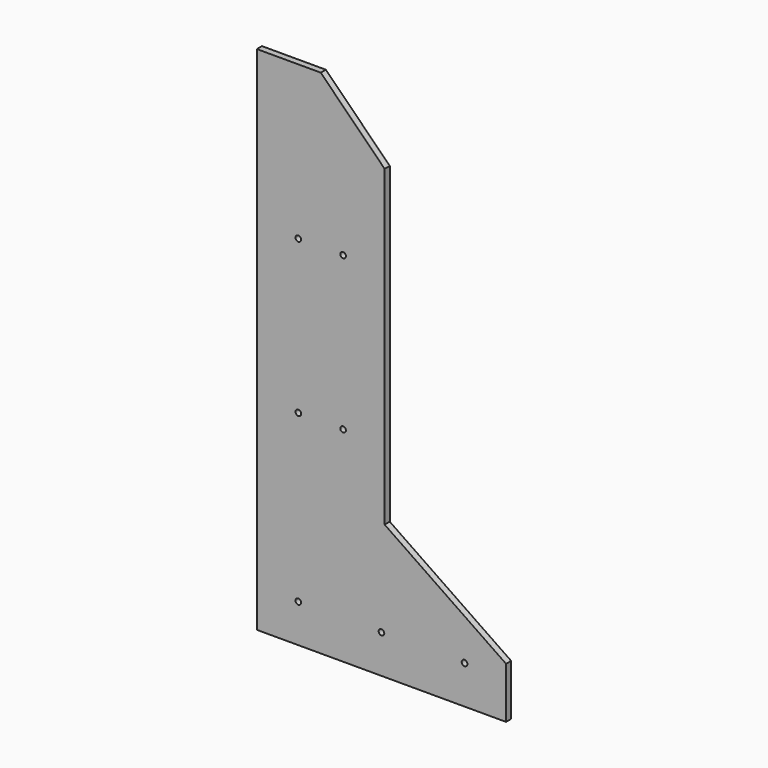
from build123d import *

# Parameters (mm, degrees)
F0_W     = 390
F0_H     = 800
F1_DEPTH = 10
F3_DEPTH = 25
F5_D     = 8.8


with BuildPart() as f1:
    # F0 (on Front) → F1 (new body)
    with BuildSketch(Plane.XZ):
        Rectangle(F0_W, F0_H)
    extrude(amount=F1_DEPTH)

    # F2 (on face) → F3 (cut)
    with BuildSketch(Plane.XZ.offset(10)):
        Polygon((5, -190), (195, -320), (195, 400), (-95, 400), (5, 300), align=None)
    extrude(amount=-F3_DEPTH, mode=Mode.SUBTRACT)

    # F5 (through all)
    with Locations(Plane.XZ.offset(10)):
        with Locations((-130, 160), (-60, 160), (-130, -80), (-60, -80), (-130, -340), (0, -340), (130, -340)):
            Hole(F5_D / 2)


solid = f1.part
